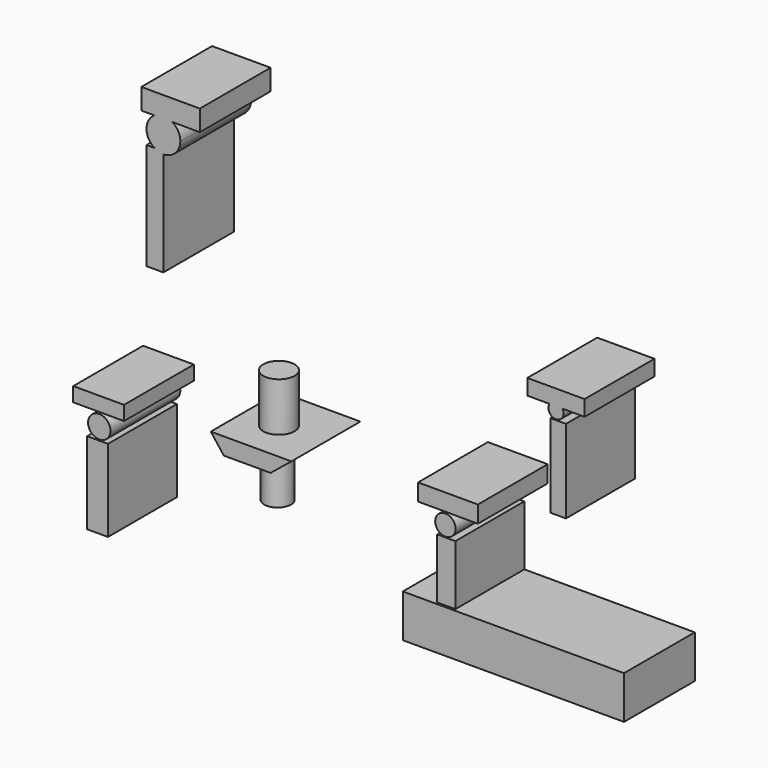
from build123d import *

# Parameters (mm, degrees)
F1_DEPTH  = 19.304
F0_W      = 4.0806541219
F0_H      = 14.5737696439
F0_W_2    = 3.4977011383
F0_H_2    = 18.6544265598
F2_R      = 3.5098288665
F3_DEPTH  = 13.716
F4_R      = 3.0009231641
F5_DEPTH  = 25.654
F6_R      = 2.2764952923
F7_DEPTH  = 19.558
F6_R_2    = 2.507365955
F6_R_3    = 1.6995801316
F8_W      = 12.8249209374
F8_H      = 3.4977048635
F9_DEPTH  = 19.558
F8_W_2    = 13.4078683332
F8_H_2    = 3.7891804241
F8_W_3    = 11.3675370812
F8_H_3    = 3.2062288374
F11_DEPTH = 19.812
F12_W     = 49.5508173481
F12_H     = 9.6186902374
F13_DEPTH = 19.812


with BuildPart() as f1:
    # F0 (on Front) → F1 (new body)
    with BuildSketch(Plane.XZ):
        Polygon((-69.0796747804, -20.8404920995), (-69.0796747804, -39.2034426332), (-64.4160658121, -39.2034426332), (-64.4160658121, -33.9568853378), (-64.4160658121, -20.8404920995), align=None)
    extrude(amount=F1_DEPTH)


with BuildPart() as f1b:
    # F0 (on Front) → F1, piece 2 (new body)
    with BuildSketch(Plane.XZ):
        Polygon((-41.3895100355, -10.9303286299), (-38.474753499, -14.7195085883), (-27.9816389084, -14.7195085883), (-23.3180336654, -10.9303286299), align=None)
    extrude(amount=F1_DEPTH)

    # F2 (on Top) → F3 (join)
    with BuildSketch(Plane.XY):
        with Locations((-33.5196740925, -10.0559014827)):
            Circle(F2_R)
    extrude(amount=-F3_DEPTH)

    # F4 (on Top) → F5 (join)
    with BuildSketch(Plane.XY):
        with Locations((-33.8111482561, -10.0559014827)):
            Circle(F4_R)
    extrude(amount=-F5_DEPTH)


with BuildPart() as f1c:
    # F0 (on Front) → F1, piece 3 (new body)
    with BuildSketch(Plane.XZ):
        with Locations((11.3675403409, -22.0063934103)):
            Rectangle(F0_W, F0_H)
    extrude(amount=F1_DEPTH)

    # F12 (on Front) → F13 (join)
    with BuildSketch(Plane.XZ):
        with Locations((26.8157380633, -32.9367229715)):
            Rectangle(F12_W, F12_H)
    extrude(amount=F13_DEPTH)


with BuildPart() as f1d:
    # F0 (on Front) → F1, piece 4 (new body)
    with BuildSketch(Plane.XZ):
        with Locations((36.4344287664, 7.1411477402)):
            Rectangle(F0_W_2, F0_H_2)
    extrude(amount=F1_DEPTH)


with BuildPart() as f7:
    # F6 (on Front) → F7 (new body)
    with BuildSketch(Plane.XZ):
        with Locations((11.3675408065, -12.0962299407)):
            Circle(F6_R)
    extrude(amount=F7_DEPTH)


with BuildPart() as f7b:
    # F6 (on Front) → F7, piece 2 (new body)
    with BuildSketch(Plane.XZ):
        with Locations((-66.1649182439, -17.9257374257)):
            Circle(F6_R_2)
    extrude(amount=F7_DEPTH)


with BuildPart() as f7c:
    # F6 (on Front) → F7, piece 3 (new body)
    with BuildSketch(Plane.XZ):
        with Locations((36.1429527402, 18.508689478)):
            Circle(F6_R_3)
    extrude(amount=F7_DEPTH)

    # F8 (on Front) → F9 (join)
    with BuildSketch(Plane.XZ):
        with Locations((36.1429499462, 21.1319681257)):
            Rectangle(F8_W, F8_H)
    extrude(amount=F9_DEPTH)


with BuildPart() as f9:
    # F8 (on Front) → F9, piece 2 (new body)
    with BuildSketch(Plane.XZ):
        with Locations((11.9504923932, -7.578361081)):
            Rectangle(F8_W_2, F8_H_2)
    extrude(amount=F9_DEPTH)


with BuildPart() as f9b:
    # F8 (on Front) → F9, piece 3 (new body)
    with BuildSketch(Plane.XZ):
        with Locations((-66.3106553257, -13.4078692645)):
            Rectangle(F8_W_3, F8_H_3)
    extrude(amount=F9_DEPTH)


with BuildPart() as f11:
    # F10 (on Front) → F11 (new body)
    with BuildSketch(Plane.XZ):
        with BuildLine():
            Line((-55.3803294897, 41.2437729537), (-55.3803294897, 17.342787236))
            Line((-55.3803294897, 17.342787236), (-51.5911504626, 17.342787236))
            Line((-51.5911504626, 17.342787236), (-51.5911504626, 40.6608246267))
            ThreePointArc((-51.5911504626, 40.6608246267), (-52.6420775711, 40.809477605), (-53.6105470055, 41.2437729537))
            Line((-53.6105470055, 41.2437729537), (-55.3803294897, 41.2437729537))
        make_face()
        with BuildLine():
            ThreePointArc((-53.6105529202, 47.6562306285), (-55.3803294897, 44.4500001587), (-53.6105470055, 41.2437729537))
            Line((-53.6105470055, 41.2437729537), (-51.5911504626, 41.2437729537))
            Line((-51.5911504626, 41.2437729537), (-51.5911504626, 40.6608246267))
            ThreePointArc((-51.5911504626, 40.6608246267), (-48.9117962774, 41.7706494686), (-47.8019714355, 44.4500036538))
            ThreePointArc((-47.8019714355, 44.4500036538), (-48.2737904325, 46.2811235651), (-49.571748005, 47.6562306285))
            Line((-49.571748005, 47.6562306285), (-53.6105529202, 47.6562306285))
        make_face()
        with BuildLine():
            Line((-51.5911504626, 41.2437729537), (-53.6105470055, 41.2437729537))
            ThreePointArc((-53.6105470055, 41.2437729537), (-52.6420775711, 40.809477605), (-51.5911504626, 40.6608246267))
            Line((-51.5911504626, 40.6608246267), (-51.5911504626, 41.2437729537))
        make_face()
        with BuildLine():
            Line((-56.5462298691, 47.6562306285), (-53.6105529202, 47.6562306285))
            ThreePointArc((-53.6105529202, 47.6562306285), (-51.5911504626, 48.2391826808), (-49.571748005, 47.6562306285))
            Line((-49.571748005, 47.6562306285), (-43.4298366308, 47.6562306285))
            Line((-43.4298366308, 47.6562306285), (-43.4298366308, 52.3198395967))
            Line((-43.4298366308, 52.3198395967), (-56.5462298691, 52.3198395967))
            Line((-56.5462298691, 52.3198395967), (-56.5462298691, 47.6562306285))
        make_face()
        with BuildLine():
            ThreePointArc((-49.571748005, 47.6562306285), (-51.5911504626, 48.2391826808), (-53.6105529202, 47.6562306285))
            Line((-53.6105529202, 47.6562306285), (-49.571748005, 47.6562306285))
        make_face()
    extrude(amount=F11_DEPTH)


solid = Compound([f1.part, f1b.part, f1c.part, f1d.part, f7.part, f7b.part, f7c.part, f9.part, f9b.part, f11.part])
